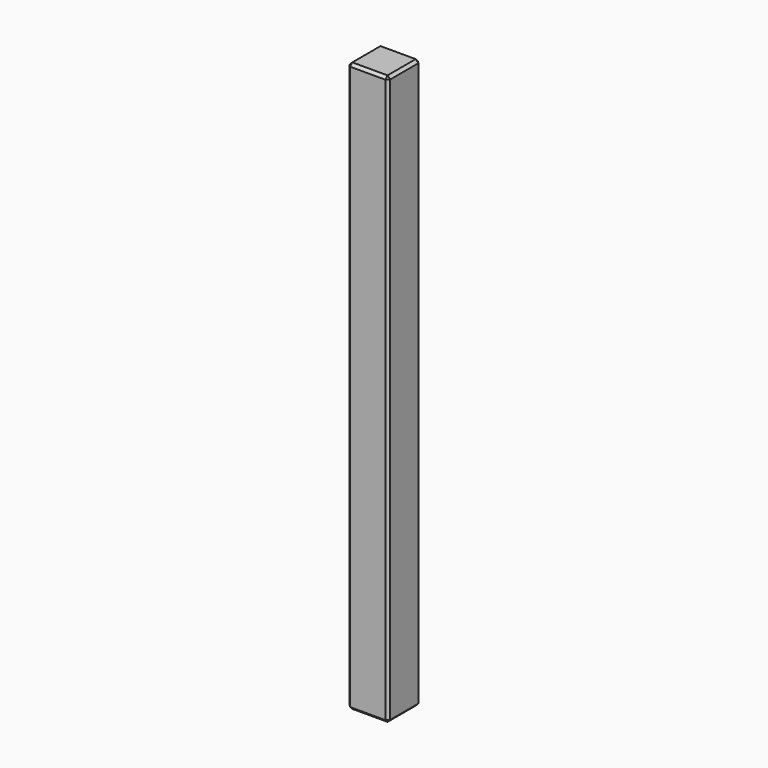
from build123d import *

# Parameters (mm, degrees)
F0_W     = 150
F0_H     = 150
F1_DEPTH = 2100
F3_D     = 25
F3_DEPTH = 200
F3_TIP   = 7.5107577378
F4_SIZE  = 10


with BuildPart() as f1:
    # F0 (on Top) → F1 (new body)
    with BuildSketch(Plane.XY):
        Rectangle(F0_W, F0_H)
    extrude(amount=F1_DEPTH)

    # F3
    with Locations(Plane(origin=(0, 0, 0), x_dir=(1, 0, 0), z_dir=(0, 0, -1))):
        with Locations((0, 0)):
            Hole(F3_D / 2, depth=F3_DEPTH)
            with Locations((0, 0, -(F3_DEPTH + F3_TIP / 2))):  # 118° drill point
                Cone(0, F3_D / 2, F3_TIP, mode=Mode.SUBTRACT)

    # F4
    f4_edges = [f1.edges().sort_by_distance(p)[0] for p in [
        (-75, 75, 1050),
        (-75, -75, 1050),
        (-75, 0, 0),
        (-75, 0, 2100),
        (0, 75, 2100),
        (75, 75, 1050),
        (0, 75, 0),
        (75, -75, 1050),
        (75, 0, 0),
        (75, 0, 2100),
        (0, -75, 0),
        (0, -75, 2100),
    ]]
    chamfer(f4_edges, length=F4_SIZE)


solid = f1.part
